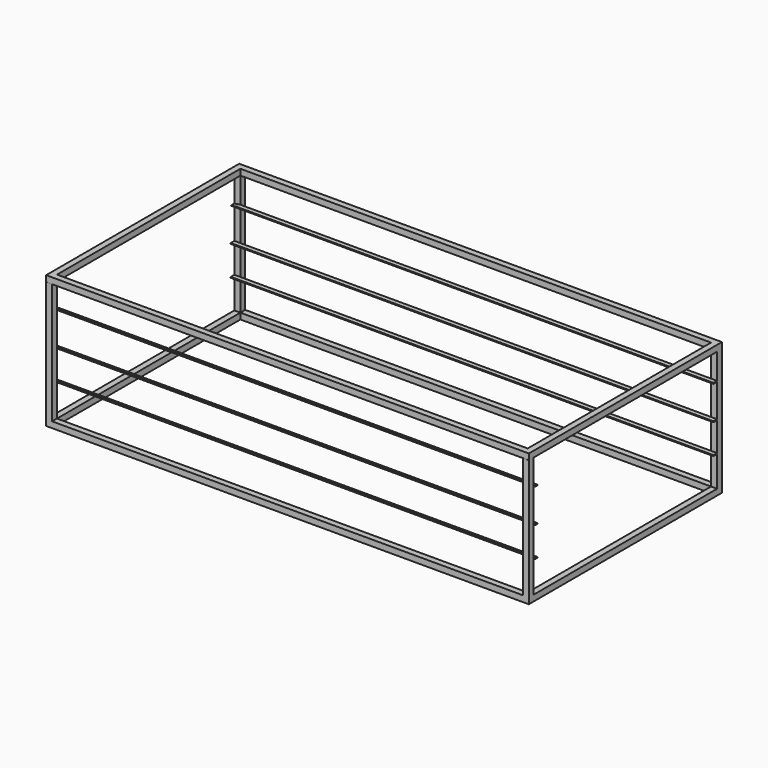
from build123d import *

# Parameters (mm, degrees)
F0_W      = 1600
F0_H      = 800
F0_W_2    = 1560
F0_H_2    = 760
F1_DEPTH  = 20
F2_W      = 20
F2_H      = 20
F3_DEPTH  = 400
F4_W      = 1599.9355792999
F4_H      = 799.8360455036
F4_W_2    = 1559.9355792999
F4_H_2    = 759.8360455036
F5_DEPTH  = 20
F6_W      = 20
F6_H      = 3
F6_W_2    = 1579.937575489
F7_DEPTH  = 753
F9_W      = 674.6543404628
F9_H      = 730
F9_W_2    = 1583.1864356995
F9_W_3    = 267.8158369829
F10_DEPTH = 245


with BuildPart() as f1:
    # F0 (on Top) → F1 (new body)
    with BuildSketch(Plane.XY):
        Rectangle(F0_W, F0_H)
        Rectangle(F0_W_2, F0_H_2, mode=Mode.SUBTRACT)
    extrude(amount=F1_DEPTH)

    # F2 (on face) → F3 (join)
    with BuildSketch(Plane.XY.offset(20)):
        with Locations((790, -390)):
            Rectangle(F2_W, F2_H)
        with Locations((790, 390)):
            Rectangle(F2_W, F2_H)
        with Locations((-790, 390)):
            Rectangle(F2_W, F2_H)
        with Locations((-790, -390)):
            Rectangle(F2_W, F2_H)
    extrude(amount=F3_DEPTH)

    # F4 (on face) → F5 (join)
    with BuildSketch(Plane.XY.offset(420)):
        with Locations((0.03221035, 0.0819772482)):
            Rectangle(F4_W, F4_H)
        with Locations((0.03221035, 0.0819772482)):
            Rectangle(F4_W_2, F4_H_2, mode=Mode.SUBTRACT)
    extrude(amount=F5_DEPTH)

    # F6 (on face) → F7 (join)
    with BuildSketch(Plane.XZ.offset(-380)):
        Polygon((-799.937575489, 331.9668085575), (780, 331.9668085575), (780, 334.9668085575), (-783.1864356995, 334.9668085575), align=None)
        with Locations((790, 333.4668085575)):
            Rectangle(F6_W, F6_H)
        with Locations((-9.9687877445, 221.5)):
            Rectangle(F6_W_2, F6_H)
        with Locations((790, 221.5)):
            Rectangle(F6_W, F6_H)
        with Locations((790, 122.6748781684)):
            Rectangle(F6_W, F6_H)
        with Locations((-9.9687877445, 122.6748781684)):
            Rectangle(F6_W_2, F6_H)
    extrude(amount=F7_DEPTH)

    # F9 (on face) → F10 (cut)
    with BuildSketch(Plane.XY.offset(334.9668085575)):
        with Locations((1137.3271702314, 0)):
            Rectangle(F9_W, F9_H)
        with Locations((8.4067821503, 0)):
            Rectangle(F9_W_2, F9_H)
        with Locations((-917.0943541909, 0)):
            Rectangle(F9_W_3, F9_H)
    extrude(amount=-F10_DEPTH, mode=Mode.SUBTRACT)


solid = f1.part
